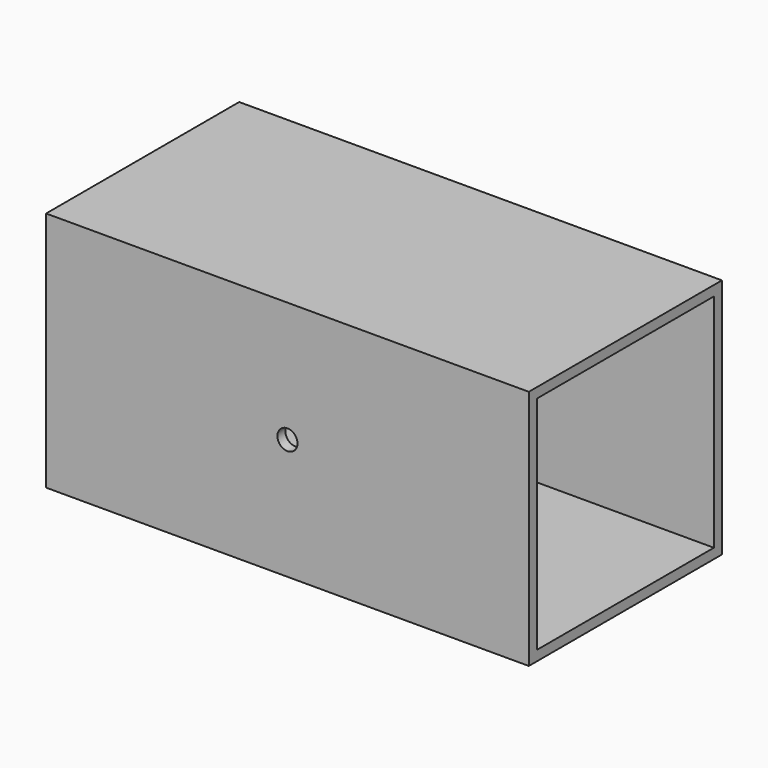
from build123d import *

# Parameters (mm, degrees)
F0_W     = 152.4
F0_H     = 152.4
F0_W_2   = 139.7
F0_H_2   = 139.7
F1_DEPTH = 304.8
F3_D     = 12.7


with BuildPart() as f1:
    # F0 (on Right) → F1 (new body)
    with BuildSketch(Plane.YZ):
        Rectangle(F0_W, F0_H)
        Rectangle(F0_W_2, F0_H_2, mode=Mode.SUBTRACT)
    extrude(amount=F1_DEPTH)

    # F3 (through all)
    with Locations(Plane.XZ.offset(76.2)):
        with Locations((152.4, 0)):
            Hole(F3_D / 2)


solid = f1.part
